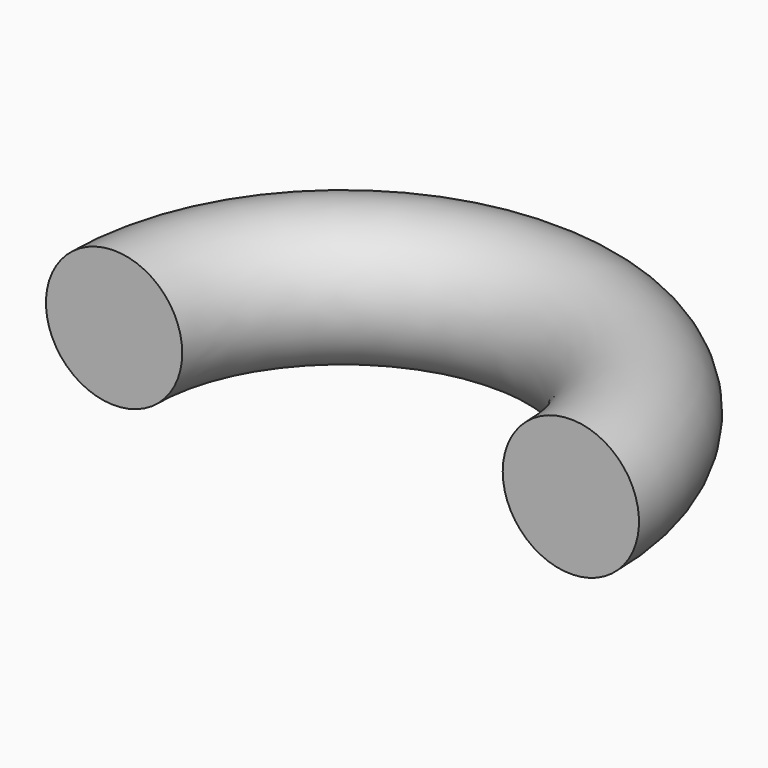
from build123d import *

# Parameters (mm, degrees)
F3_R = 9.0049118621


with BuildPart() as f4:
    # F4: sweep along a path in F0
    with BuildLine(Plane.XY) as f4_path:
        ThreePointArc((30.1822945476, 29.7630969435), (0, 59.9453914911), (-30.1822945476, 29.7630969435))
    # F3 (on plane+point) → F4 (sweep)
    with BuildSketch(Plane.XZ.offset(-29.7630969435)):
        with Locations((-30.1822945476, 0)):
            Circle(F3_R)
    sweep(path=f4_path.line)


solid = f4.part
